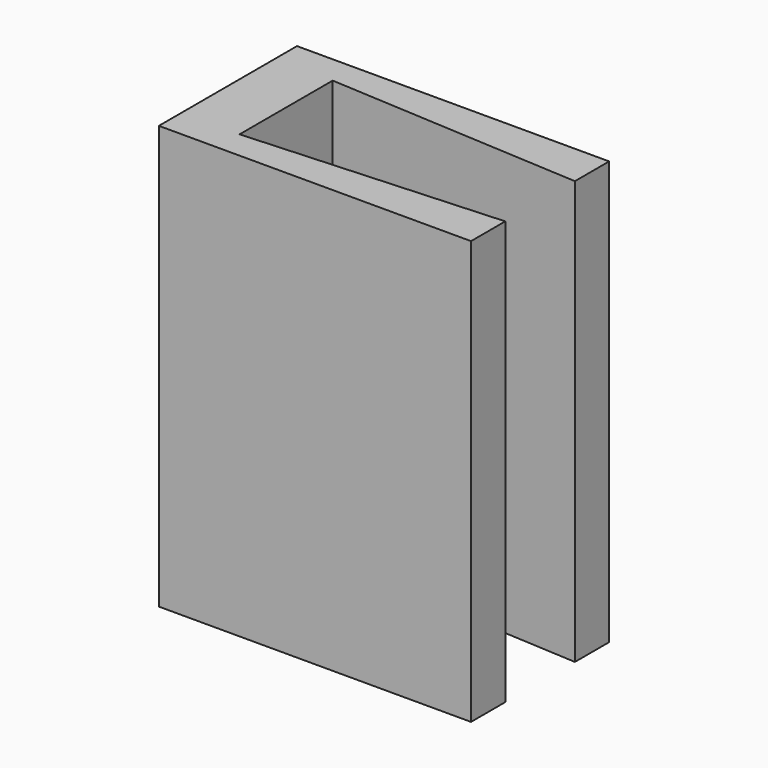
from build123d import *

# Parameters (mm, degrees)
F0_W     = 2.75
F0_H     = 1.329994
F0_H_2   = 1.33
F0_H_3   = 5.5
F1_DEPTH = 20


with BuildPart() as f1:
    # F0 (on Top) → F1 (new body)
    with BuildSketch(Plane.XY):
        with Locations((-28.250072, -2.064442)):
            Rectangle(F0_W, F0_H)
        with Locations((-28.250072, -8.894439)):
            Rectangle(F0_W, F0_H_2)
        Polygon((-26.875072, -1.399445), (-26.875072, -2.729439), (-14.875072, -3.422548), (-14.875072, -2.711871), (-14.875072, -1.399445), align=None)
        Polygon((-14.875072, -7.536331), (-26.875072, -8.229439), (-26.875072, -9.559439), (-14.875072, -9.559439), (-14.875072, -7.857072), align=None)
        with Locations((-28.250072, -5.479439)):
            Rectangle(F0_W, F0_H_3)
    extrude(amount=F1_DEPTH)


solid = f1.part
